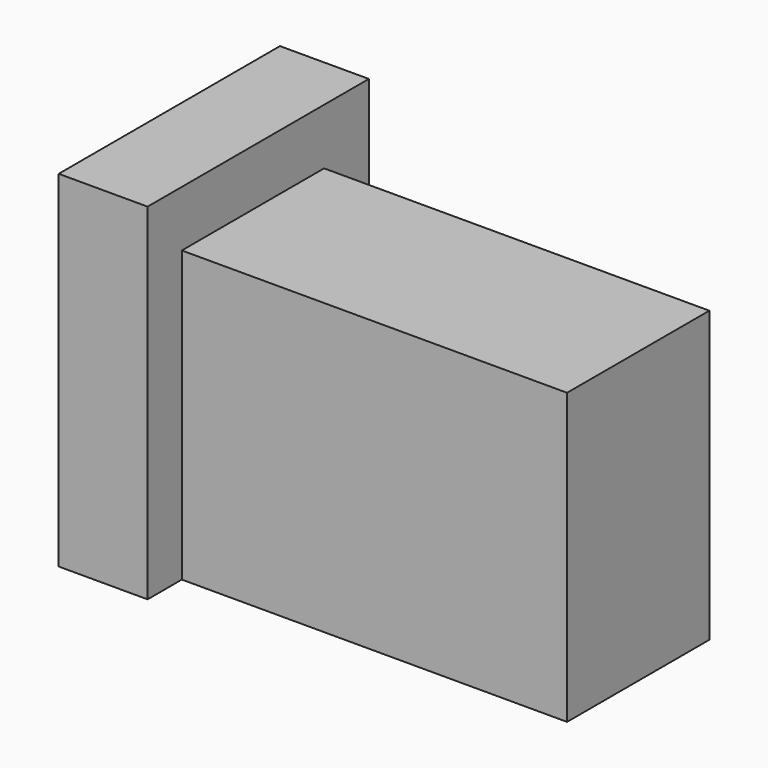
from build123d import *

# Parameters (mm, degrees)
F1_DEPTH = 2667
F2_W     = 2971.8
F2_H     = 431.8
F3_DEPTH = 1803.401


with BuildPart() as f1:
    # F0 (on Top) → F1 (new body)
    with BuildSketch(Plane.XY):
        Polygon((685.8, 1066.8), (0, 1066.8), (0, -1066.8), (685.8, -1066.8), (685.8, -736.6), (3657.6, -736.6), (3657.6, 635), (685.8, 635), align=None)
    extrude(amount=F1_DEPTH)

    # F2 (on face) → F3 (cut, through all)
    with BuildSketch(Plane.XZ.offset(736.6)):
        with Locations((2171.7, 2451.1)):
            Rectangle(F2_W, F2_H)
    extrude(amount=-F3_DEPTH, mode=Mode.SUBTRACT)


solid = f1.part
